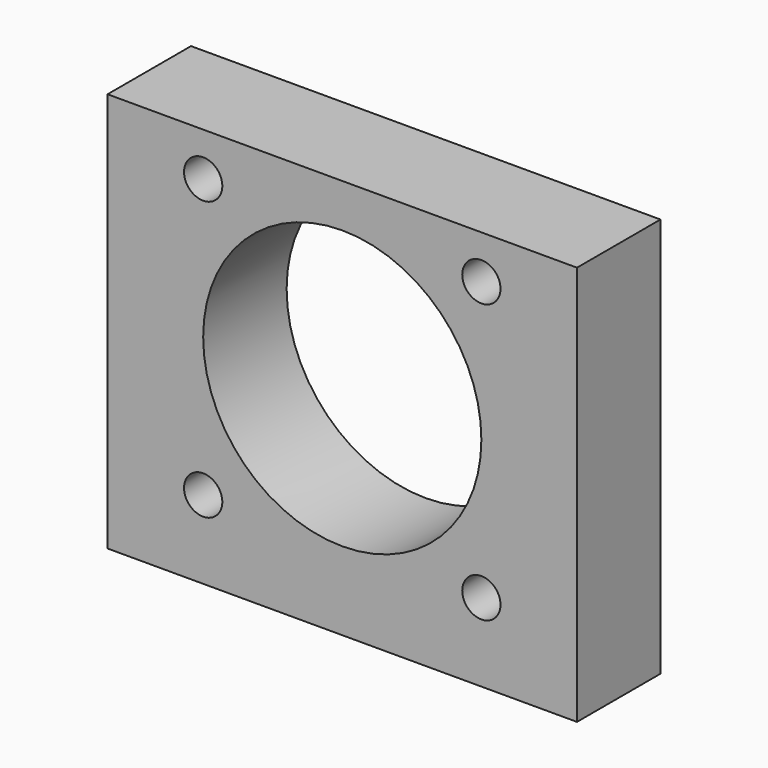
from build123d import *

# Parameters (mm, degrees)
SKETCH040_W    = 27
SKETCH040_H    = 23
PAD011_DEPTH   = 6
SKETCH041_R    = 8
HOLE013_DEPTH  = 25
SKETCH042_R    = 1.1
HOLE014_DEPTH  = 25
SKETCH043_R    = 0.8
HOLE015_DEPTH  = 3.519312
HOLE015_TIPS_R = 0.8


with BuildPart() as fix:
    # Sketch040 → Pad011 (new body)
    with BuildSketch(Plane.XZ):
        with Locations((-42.54, 19.462705)):
            Rectangle(SKETCH040_W, SKETCH040_H)
    extrude(amount=PAD011_DEPTH)

    # Sketch041 (on Face6 of Pad011) → Hole013 (cut)
    with BuildSketch(Plane.XZ.offset(6)):
        with Locations((-42.54, 20.462705)):
            Circle(SKETCH041_R)
    extrude(amount=-HOLE013_DEPTH, mode=Mode.SUBTRACT)

    # Sketch042 (on Face5 of Hole013) → Hole014 (cut)
    with BuildSketch(Plane.XZ.offset(6)):
        with Locations((-50.54, 28.462705)):
            Circle(SKETCH042_R)
        with Locations((-34.54, 28.462705)):
            Circle(SKETCH042_R)
        with Locations((-50.54, 12.462705)):
            Circle(SKETCH042_R)
        with Locations((-34.54, 12.462705)):
            Circle(SKETCH042_R)
    extrude(amount=-HOLE014_DEPTH, mode=Mode.SUBTRACT)

    # Sketch043 (on Face6 of Hole014) → Hole015 (cut)
    with BuildSketch(Plane(origin=(0, 0, 7.962705), x_dir=(1, 0, 0), z_dir=(0, 0, -1))):
        with Locations((-53.04, 3)):
            Circle(SKETCH043_R)
        with Locations((-46.04, 3)):
            Circle(SKETCH043_R)
        with Locations((-39.04, 3)):
            Circle(SKETCH043_R)
        with Locations((-32.04, 3)):
            Circle(SKETCH043_R)
    extrude(amount=-HOLE015_DEPTH, mode=Mode.SUBTRACT)

    # Hole015 tips → Hole015 tip 1 section 0
    with BuildSketch(Plane(origin=(0, 0, 11.482016), x_dir=(1, 0, 0), z_dir=(0, 0, -1)), mode=Mode.PRIVATE) as hole015_tip_1_s0:
        with Locations((-53.04, 3)):
            Circle(HOLE015_TIPS_R)
    loft([hole015_tip_1_s0.sketch, Vertex(-53.04, -3, 11.962705)], mode=Mode.SUBTRACT)

    # Hole015 tips → Hole015 tip 2 section 0
    with BuildSketch(Plane(origin=(0, 0, 11.482016), x_dir=(1, 0, 0), z_dir=(0, 0, -1)), mode=Mode.PRIVATE) as hole015_tip_2_s0:
        with Locations((-46.04, 3)):
            Circle(HOLE015_TIPS_R)
    loft([hole015_tip_2_s0.sketch, Vertex(-46.04, -3, 11.962705)], mode=Mode.SUBTRACT)

    # Hole015 tips → Hole015 tip 3 section 0
    with BuildSketch(Plane(origin=(0, 0, 11.482016), x_dir=(1, 0, 0), z_dir=(0, 0, -1)), mode=Mode.PRIVATE) as hole015_tip_3_s0:
        with Locations((-39.04, 3)):
            Circle(HOLE015_TIPS_R)
    loft([hole015_tip_3_s0.sketch, Vertex(-39.04, -3, 11.962705)], mode=Mode.SUBTRACT)

    # Hole015 tips → Hole015 tip 4 section 0
    with BuildSketch(Plane(origin=(0, 0, 11.482016), x_dir=(1, 0, 0), z_dir=(0, 0, -1)), mode=Mode.PRIVATE) as hole015_tip_4_s0:
        with Locations((-32.04, 3)):
            Circle(HOLE015_TIPS_R)
    loft([hole015_tip_4_s0.sketch, Vertex(-32.04, -3, 11.962705)], mode=Mode.SUBTRACT)


with BuildPart() as fix_1:
    # Body006021004 placement: moved
    add(fix.part.moved(Location((0, -105.83, -1.96))))


with BuildPart() as part_mirroring001:
    # Part__Mirroring001: instance of Fix
    add(fix_1.part.mirror(Plane(origin=(0, 0, 0), x_dir=(0, -1, 0), z_dir=(1, 0, 0))))


with BuildPart() as part_mirroring001_1:
    # Part__Mirroring001 placement: moved
    add(part_mirroring001.part.moved(Location((-56, 0, 16))))


solid = part_mirroring001_1.part
